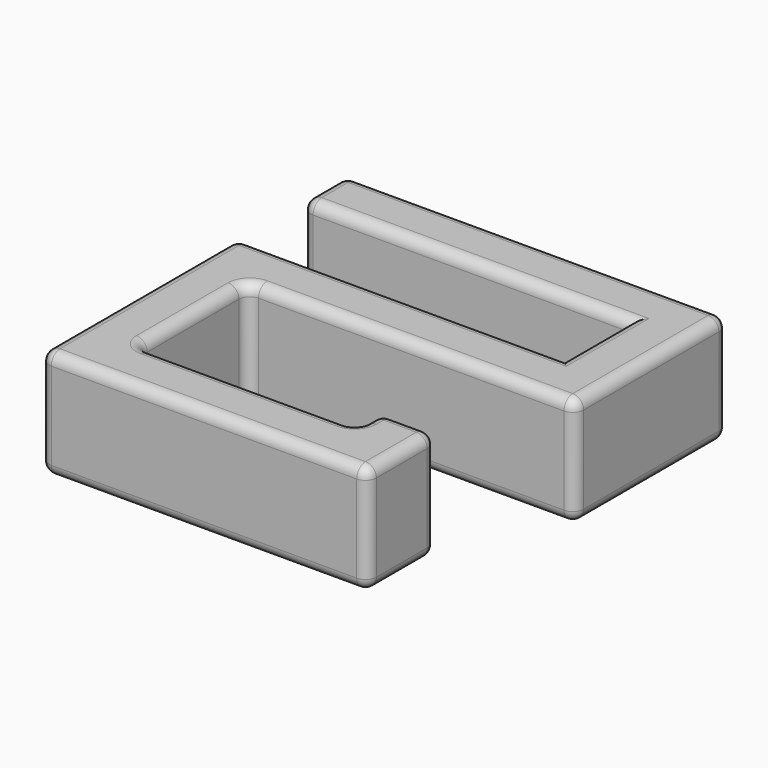
from build123d import *

# Parameters (mm, degrees)
F1_DEPTH = 25.4
F2_R     = 2.54


with BuildPart() as f1:
    # F0 (on Top) → F1 (new body)
    with BuildSketch(Plane.XY):
        Polygon((50.462863, 51.598176), (-38.437137, 51.598176), (-38.437137, 38.898176), (37.762863, 38.898176), (37.762863, 19.848176), (-38.437137, 19.848176), (-38.437137, -37.301824), (37.762863, -37.301824), (37.762863, -17.442089), (25.062863, -17.442089), (25.062863, -24.601824), (-25.737137, -24.601824), (-25.737137, 7.148176), (50.462863, 7.148176), align=None)
    extrude(amount=F1_DEPTH)

    # F2
    f2_edges = [f1.edges().sort_by_distance(p)[0] for p in [
        (-38.437137, 51.598176, 12.7),
        (50.462863, 51.598176, 12.7),
        (50.462863, 7.148176, 12.7),
        (-38.437137, 19.848176, 12.7),
        (-38.437137, -37.301824, 12.7),
        (37.762863, -37.301824, 12.7),
        (25.062863, -17.442089, 12.7),
        (37.762863, -17.442089, 12.7),
        (-25.737137, 7.148176, 12.7),
        (-25.737137, -24.601824, 12.7),
        (25.062863, -24.601824, 12.7),
        (-38.437137, 38.898176, 12.7),
        (-38.437137, -8.726824, 25.4),
        (-0.337137, -37.301824, 25.4),
        (37.762863, -27.371956, 25.4),
        (31.412863, -17.442089, 25.4),
        (25.062863, -21.021956, 25.4),
        (-0.337137, -24.601824, 25.4),
        (-25.737137, -8.726824, 25.4),
        (12.362863, 7.148176, 25.4),
        (50.462863, 29.373176, 25.4),
        (6.012863, 51.598176, 25.4),
        (-38.437137, 45.248176, 25.4),
        (-0.337137, 38.898176, 25.4),
        (37.762863, 29.373176, 25.4),
        (-0.337137, 19.848176, 25.4),
        (-38.437137, -8.726824, 0),
        (-0.337137, -37.301824, 0),
        (37.762863, -27.371956, 0),
        (31.412863, -17.442089, 0),
        (25.062863, -21.021956, 0),
        (-0.337137, -24.601824, 0),
        (-25.737137, -8.726824, 0),
        (12.362863, 7.148176, 0),
        (50.462863, 29.373176, 0),
        (6.012863, 51.598176, 0),
        (-38.437137, 45.248176, 0),
        (-0.337137, 38.898176, 0),
        (37.762863, 29.373176, 0),
        (-0.337137, 19.848176, 0),
    ]]
    fillet(f2_edges, radius=F2_R)


solid = f1.part
